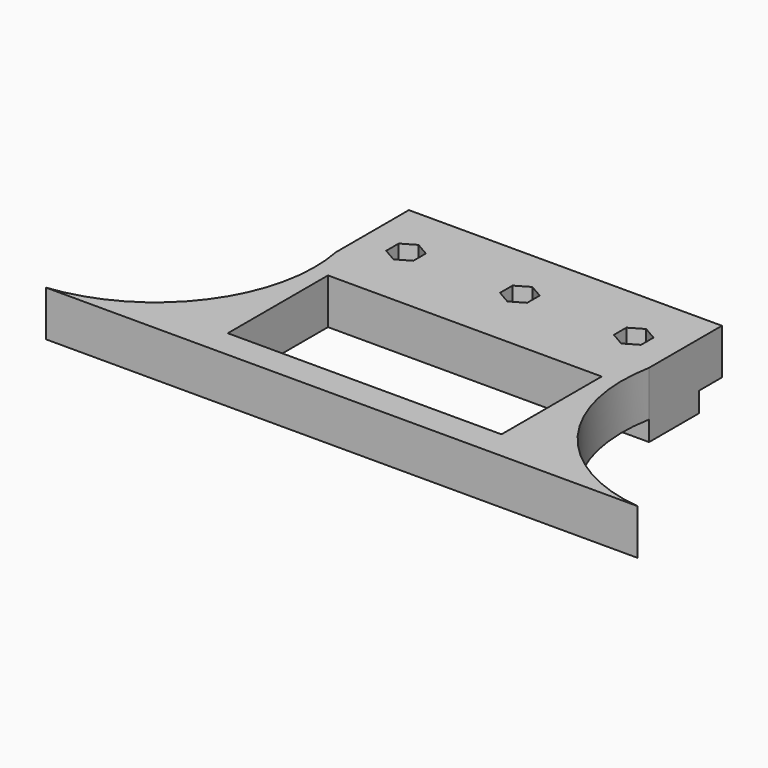
from build123d import *

# Parameters (mm, degrees)
F0_W     = 55
F0_H     = 11
F0_H_2   = 5
F1_DEPTH = 8
F0_R     = 1.75
F2_DEPTH = 4
F3_DEPTH = 3.5
F0_W_2   = 48.086722
F0_H_3   = 22
F4_DEPTH = 8


with BuildPart() as f1:
    # F0 (on Top) → F1 (new body)
    with BuildSketch(Plane.XY):
        with Locations((0, -2.5)):
            Rectangle(F0_W, F0_H)
        Polygon((-22.38157, -0.625), (-20, 0.75), (-17.61843, -0.625), (-17.61843, -3.375), (-20, -4.75), (-22.38157, -3.375), align=None, mode=Mode.SUBTRACT)
        Polygon((-2.38157, -0.625), (0, 0.75), (2.38157, -0.625), (2.38157, -3.375), (0, -4.75), (-2.38157, -3.375), align=None, mode=Mode.SUBTRACT)
        Polygon((17.61843, -0.625), (20, 0.75), (22.38157, -0.625), (22.38157, -3.375), (20, -4.75), (17.61843, -3.375), align=None, mode=Mode.SUBTRACT)
        with Locations((0, 5.5)):
            Rectangle(F0_W, F0_H_2)
    extrude(amount=F1_DEPTH)

    # F0 (on Top) → F2 (join)
    with BuildSketch(Plane.XY):
        Polygon((2.38157, -0.625), (0, 0.75), (-2.38157, -0.625), (-2.38157, -3.375), (0, -4.75), (2.38157, -3.375), align=None)
        with Locations((0, -2)):
            Circle(F0_R, mode=Mode.SUBTRACT)
        Polygon((22.38157, -0.625), (20, 0.75), (17.61843, -0.625), (17.61843, -3.375), (20, -4.75), (22.38157, -3.375), align=None)
        with Locations((20, -2)):
            Circle(F0_R, mode=Mode.SUBTRACT)
        Polygon((-17.61843, -0.625), (-20, 0.75), (-22.38157, -0.625), (-22.38157, -3.375), (-20, -4.75), (-17.61843, -3.375), align=None)
        with Locations((-20, -2)):
            Circle(F0_R, mode=Mode.SUBTRACT)
    extrude(amount=F2_DEPTH)

    # F0 (on Top) → F3 (join)
    with BuildSketch(Plane.XY):
        with Locations((0, -2.5)):
            Rectangle(F0_W, F0_H)
        Polygon((-22.38157, -0.625), (-20, 0.75), (-17.61843, -0.625), (-17.61843, -3.375), (-20, -4.75), (-22.38157, -3.375), align=None, mode=Mode.SUBTRACT)
        Polygon((-2.38157, -0.625), (0, 0.75), (2.38157, -0.625), (2.38157, -3.375), (0, -4.75), (-2.38157, -3.375), align=None, mode=Mode.SUBTRACT)
        Polygon((17.61843, -0.625), (20, 0.75), (22.38157, -0.625), (22.38157, -3.375), (20, -4.75), (17.61843, -3.375), align=None, mode=Mode.SUBTRACT)
    extrude(amount=-F3_DEPTH)

    # F0 (on Top) → F4 (join)
    with BuildSketch(Plane.XY):
        with BuildLine():
            Line((27.5, -8), (-27.5, -8))
            ThreePointArc((-27.5, -8), (-32.483751, -29.904804), (-51.967503, -41.087007))
            Line((-51.967503, -41.087007), (51.967503, -41.087007))
            ThreePointArc((51.967503, -41.087007), (32.483751, -29.904804), (27.5, -8))
        make_face()
        with Locations((0, -25.087007)):
            Rectangle(F0_W_2, F0_H_3, mode=Mode.SUBTRACT)
    extrude(amount=F4_DEPTH)


solid = f1.part
